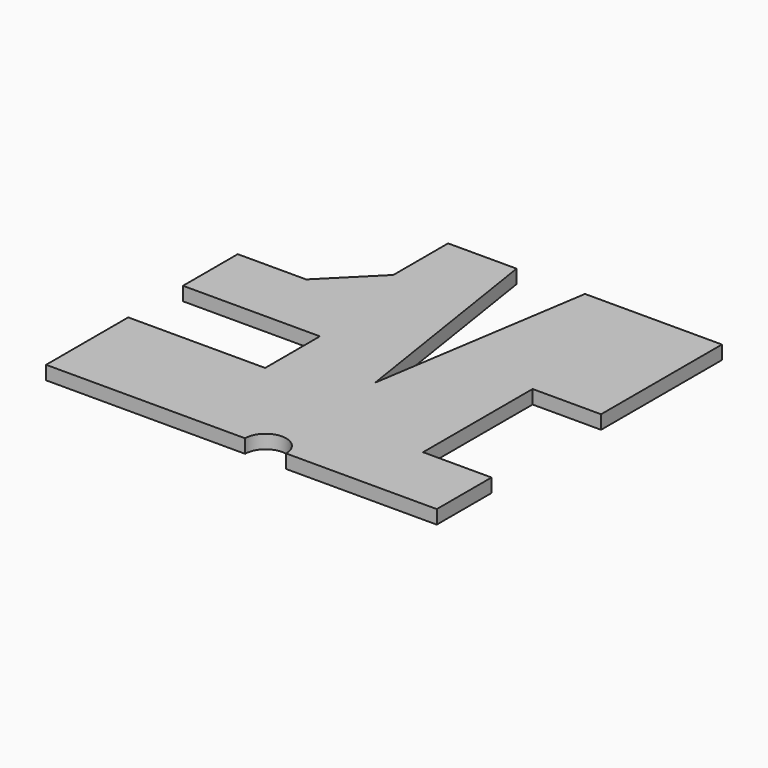
from build123d import *

# Parameters (mm, degrees)
PAD_DEPTH = 1


with BuildPart() as part:
    # Sketch → Pad (new body)
    with BuildSketch(Plane.XY):
        with BuildLine():
            Line((-16.035534, -10), (-16.035534, -2.5))
            Line((-16.035534, -2.5), (-6.035534, -2.5))
            Line((-6.035534, -2.5), (-6.035534, 2.5))
            Line((-6.035534, 2.5), (-16.035534, 2.5))
            Line((-16.035534, 2.5), (-16.035534, 7.5))
            Line((-16.035534, 7.5), (-11.035534, 7.5))
            Line((-11.035534, 7.5), (-7.5, 11.035534))
            Line((-7.5, 11.035534), (-7.5, 16.035534))
            Line((-7.5, 16.035534), (-2.5, 16.035534))
            Line((-2.5, 16.035534), (0, 0))
            Line((0, 0), (2.5, 16.035534))
            Line((2.5, 16.035534), (12.5, 16.035534))
            Line((12.5, 16.035534), (12.5, 5))
            Line((12.5, 5), (7.5, 5))
            Line((7.5, 5), (7.5, -5))
            Line((7.5, -5), (12.5, -5))
            Line((12.5, -5), (12.5, -10))
            Line((12.5, -10), (1.5, -10))
            ThreePointArc((1.5, -10), (0, -8.5), (-1.5, -10))
            Line((-1.5, -10), (-16.035534, -10))
        make_face()
    extrude(amount=PAD_DEPTH)


solid = part.part
